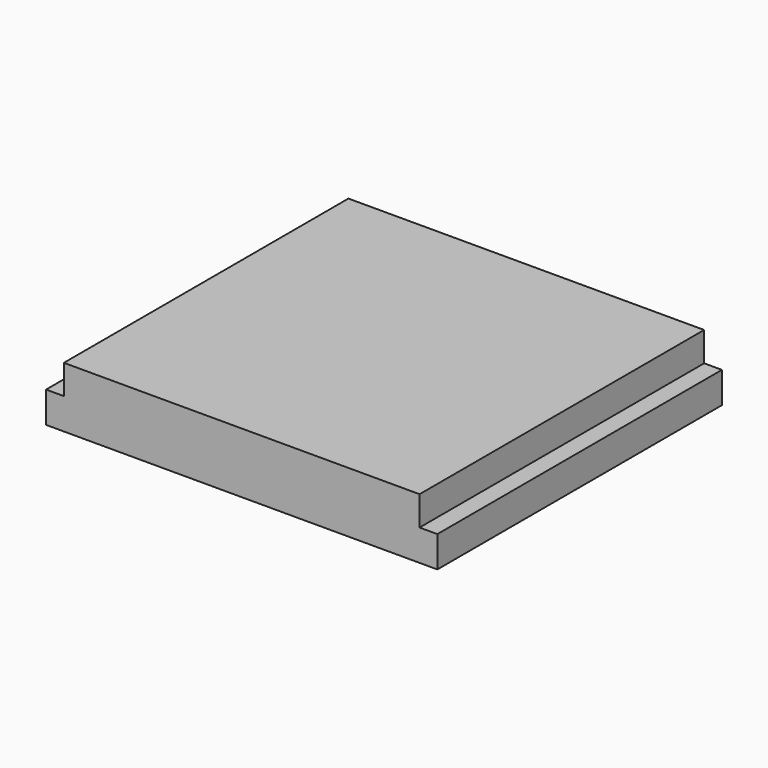
from build123d import *

# Parameters (mm, degrees)
BOX003_W     = 44
BOX003_H     = 40
BOX003_DEPTH = 3.5
BOX002_W     = 40
BOX002_H     = 40
BOX002_DEPTH = 3.3


with BuildPart() as radiator:
    # Box003 → Box003 (new body)
    with BuildSketch(Plane(origin=(-2, 0, -3.5), x_dir=(1, 0, 0), z_dir=(0, 0, 1))):
        with Locations((22, 20)):
            Rectangle(BOX003_W, BOX003_H)
    extrude(amount=BOX003_DEPTH)


with BuildPart() as obj1:
    # Box002 → Box002 (new body)
    with BuildSketch(Plane.XY):
        with Locations((20, 20)):
            Rectangle(BOX002_W, BOX002_H)
    extrude(amount=BOX002_DEPTH)

    # Fusion003: union radiator
    add(radiator.part)


with BuildPart() as obj1_1:
    # Fusion003 placement: moved
    add(obj1.part.moved(Location((0, 10, -18.5))))


solid = obj1_1.part
